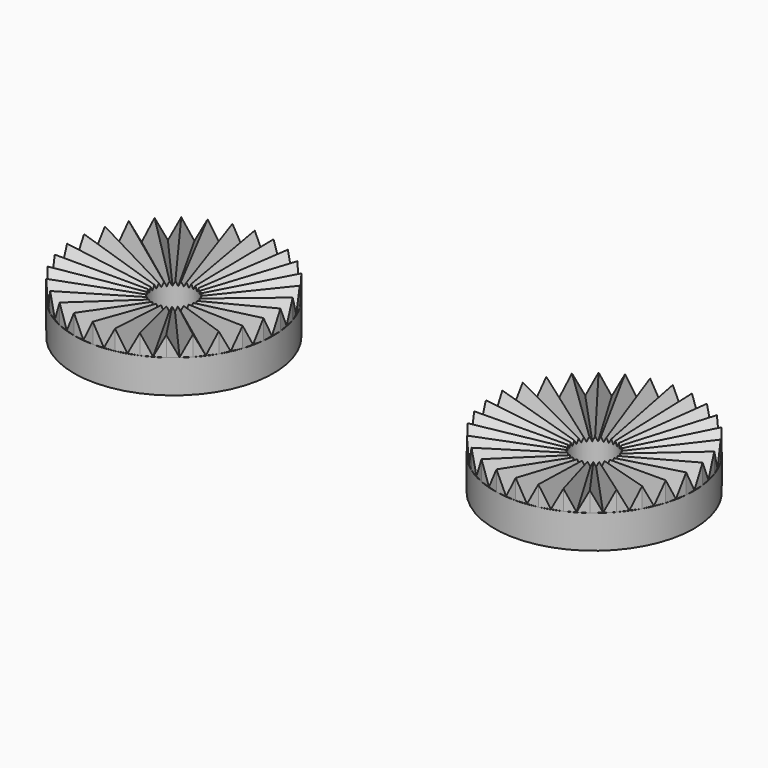
from build123d import *

# Parameters (mm, degrees)
F0_R      = 15
F1_DEPTH  = 5
F3_DEPTH  = 3
F7_DEPTH  = 35.3401162341
F20_DEPTH = 36.0876990021
F21_DEPTH = 35.9101005466
F22_DEPTH = 34.8150827724
F23_DEPTH = 32.8505032105
F24_DEPTH = 30.1022234151
F25_DEPTH = 32.566239834
F26_DEPTH = 34.6280398378
F27_DEPTH = 35.8284527279
F28_DEPTH = 36.1150147006
F29_DEPTH = 35.4752016227
F30_DEPTH = 33.9369763959
F31_DEPTH = 31.5675668438
F32_DEPTH = 31.2391057388
F33_DEPTH = 33.7000251969
F34_R     = 3.25
F35_DEPTH = 8.001


with BuildPart() as f1:
    # F0 (on Top) → F1 (new body)
    with BuildSketch(Plane.XY):
        with Locations((31.6234789789, -37.7434529364)):
            Circle(F0_R)
    extrude(amount=F1_DEPTH)

    # F2 (on face) → F3 (join)
    with BuildSketch(Plane.XY.offset(5)):
        Polygon((42.8932825456, -47.6425199413), (44.7051420569, -45.083077662), (45.9452701189, -42.2028585627), (46.5594671846, -39.127742039), (46.5208898948, -35.992125439), (45.8312242622, -32.9330502544), (44.5206119845, -30.0842127498), (42.6463331071, -27.5701207946), (40.2903026108, -25.500652271), (37.5554903337, -23.9662528839), (34.5614206955, -23.0339832495), (31.4389489064, -22.7445880243), (28.324541967, -23.1107151682), (25.3543144051, -24.1163631684), (22.6580794178, -25.7175803814), (20.3536754121, -27.8443859315), (18.5418159008, -30.4038282109), (17.3016878388, -33.2840473101), (16.6874907732, -36.3591638338), (16.726068063, -39.4947804338), (17.4157336955, -42.5538556185), (18.7263459733, -45.402693123), (20.6006248507, -47.9167850782), (22.956655347, -49.9862536019), (25.6914676241, -51.5206529889), (28.6855372623, -52.4529226233), (31.8080090513, -52.7423178485), (34.9224159907, -52.3761907046), (37.8926435527, -51.3705427045), (40.5888785399, -49.7693254915), align=None)
    extrude(amount=F3_DEPTH)

    # F4 (on face) → F7 (cut, through all)
    with BuildSketch(Plane(origin=(-1.2355113256, -2.2020939074, 0), x_dir=(-0.8721108719, 0.489308315, 0), z_dir=(0.489308315, 0.8721108719, 0))):
        Polygon((-46.0473651839, 5), (-44.4794382348, 8), (-47.6152921329, 8), align=None)
    extrude(amount=-F7_DEPTH, mode=Mode.SUBTRACT)

    # F5 (on face) → F20 (cut, through all)
    with BuildSketch(Plane(origin=(4.9032966443, 5.5822624479, 0), x_dir=(-0.7513202378, 0.6599378003, 0), z_dir=(0.6599378003, 0.7513202378, 0))):
        Polygon((-48.6676910534, 5), (-47.0997641044, 8), (-50.2356180025, 8), align=None)
    extrude(amount=-F20_DEPTH, mode=Mode.SUBTRACT)

    # F6 (on face) → F21 (cut, through all)
    with BuildSketch(Plane(origin=(14.2002688623, 10.5864321813, 0), x_dir=(-0.5976933041, 0.801724837, 0), z_dir=(0.801724837, 0.5976933041, 0))):
        Polygon((-49.1610052905, 5), (-47.5930783415, 8), (-50.7289322395, 8), align=None)
    extrude(amount=-F21_DEPTH, mode=Mode.SUBTRACT)

    # F8 (on face) → F22 (cut, through all)
    with BuildSketch(Plane(origin=(25.321161423, 11.6490410544, 0), x_dir=(-0.4179443049, 0.9084726512, 0), z_dir=(0.9084726512, 0.4179443049, 0))):
        Polygon((-47.5057476957, 5), (-45.9378207467, 8), (-49.0736746447, 8), align=None)
    extrude(amount=-F22_DEPTH, mode=Mode.SUBTRACT)

    # F9 (on face) → F23 (cut, through all)
    with BuildSketch(Plane(origin=(36.5488217667, 8.2398976033, 0), x_dir=(-0.2199291341, 0.9755158512, 0), z_dir=(0.9755158512, 0.2199291341, 0))):
        Polygon((-43.7742609687, 5), (-42.2063340197, 8), (-45.3421879177, 8), align=None)
    extrude(amount=-F23_DEPTH, mode=Mode.SUBTRACT)

    # F10 (on face) → F24 (cut, through all)
    with BuildSketch(Plane(origin=(46.0711076597, 0.5668098809, 0), x_dir=(-0.0123020048, 0.9999243275, 0), z_dir=(0.9999243275, 0.0123020048, 0))):
        Polygon((-38.1296289852, 5), (-36.5617020362, 8), (-39.6975559342, 8), align=None)
    extrude(amount=-F24_DEPTH, mode=Mode.SUBTRACT)

    # F11 (on face) → F25 (cut, through all)
    with BuildSketch(Plane(origin=(52.2885754173, -10.443665903, 0), x_dir=(0.1958627811, 0.9806313125, 0), z_dir=(0.9806313125, -0.1958627811, 0))):
        Polygon((-30.8185492487, 5), (-29.2506222997, 8), (-32.3864761978, 8), align=None)
    extrude(amount=-F25_DEPTH, mode=Mode.SUBTRACT)

    # F12 (on face) → F26 (cut, through all)
    with BuildSketch(Plane(origin=(54.0889821091, -23.2889451281, 0), x_dir=(0.3954674237, 0.9184800035, 0), z_dir=(0.9184800035, -0.3954674237, 0))):
        Polygon((-22.1605510263, 5), (-20.5926240773, 8), (-23.7284779753, 8), align=None)
    extrude(amount=-F26_DEPTH, mode=Mode.SUBTRACT)

    # F13 (on face) → F27 (cut, through all)
    with BuildSketch(Plane(origin=(51.0412276847, -36.132689765, 0), x_dir=(0.5777882421, 0.816186711, 0), z_dir=(0.816186711, -0.5777882421, 0))):
        Polygon((-12.5340303859, 5), (-10.9661034369, 8), (-14.101957335, 8), align=None)
    extrude(amount=-F27_DEPTH, mode=Mode.SUBTRACT)

    # F14 (on face) → F28 (cut, through all)
    with BuildSketch(Plane(origin=(43.4751316342, -47.1055134667, 0), x_dir=(0.7348569419, 0.6782221428, 0), z_dir=(0.6782221428, -0.7348569419, 0))):
        Polygon((-2.3597124727, 5), (-0.7917855237, 8), (-3.9276394218, 8), align=None)
    extrude(amount=-F28_DEPTH, mode=Mode.SUBTRACT)

    # F15 (on face) → F29 (cut, through all)
    with BuildSketch(Plane(origin=(32.4330212558, -54.6128569833, 0), x_dir=(0.859808867, 0.5106160124, 0), z_dir=(0.5106160124, -0.859808867, 0))):
        Polygon((7.9177361987, 5), (9.4856631477, 8), (6.3498092497, 8), align=None)
    extrude(amount=-F29_DEPTH, mode=Mode.SUBTRACT)

    # F16 (on face) → F30 (cut, through all)
    with BuildSketch(Plane(origin=(19.5011257525, -57.5974706785, 0), x_dir=(0.9471830189, 0.3206935121, 0), z_dir=(0.3206935121, -0.9471830189, 0))):
        Polygon((17.8491418047, 5), (19.4170687537, 8), (16.2812148557, 8), align=None)
    extrude(amount=-F30_DEPTH, mode=Mode.SUBTRACT)

    # F17 (on face) → F31 (cut, through all)
    with BuildSketch(Plane(origin=(6.5494217151, -55.7116968096, 0), x_dir=(0.9931607277, 0.1167551665, 0), z_dir=(0.1167551665, -0.9931607277, 0))):
        Polygon((27.0004542642, 5), (28.5683812132, 8), (25.4325273152, 8), align=None)
    extrude(amount=-F31_DEPTH, mode=Mode.SUBTRACT)

    # F18 (on face) → F32 (cut, through all)
    with BuildSketch(Plane(origin=(-4.5757039946, -49.3702224245, 0), x_dir=(0.995732547, -0.0922859402, 0), z_dir=(-0.0922859402, -0.995732547, 0))):
        Polygon((34.9717173097, 5), (36.5396442588, 8), (33.4037903607, 8), align=None)
    extrude(amount=-F32_DEPTH, mode=Mode.SUBTRACT)

    # F19 (on face) → F33 (cut, through all)
    with BuildSketch(Plane(origin=(-12.3535318048, -39.6745031011, 0), x_dir=(0.954786076, -0.2972937084, 0), z_dir=(-0.2972937084, -0.954786076, 0))):
        Polygon((41.414548496, 5), (42.982475445, 8), (39.846621547, 8), align=None)
    extrude(amount=-F33_DEPTH, mode=Mode.SUBTRACT)

    # F34 (on face) → F35 (cut, through all)
    with BuildSketch(Plane(origin=(0, 0, 0), x_dir=(1, 0, 0), z_dir=(0, 0, -1))):
        with Locations((31.6234789789, 37.7434529364)):
            Circle(F34_R)
    extrude(amount=-F35_DEPTH, mode=Mode.SUBTRACT)


with BuildPart() as f36_1:
    # F36: instance of F1
    add(f1.part.mirror(Plane.YZ))


solid = Compound([f1.part, f36_1.part])
